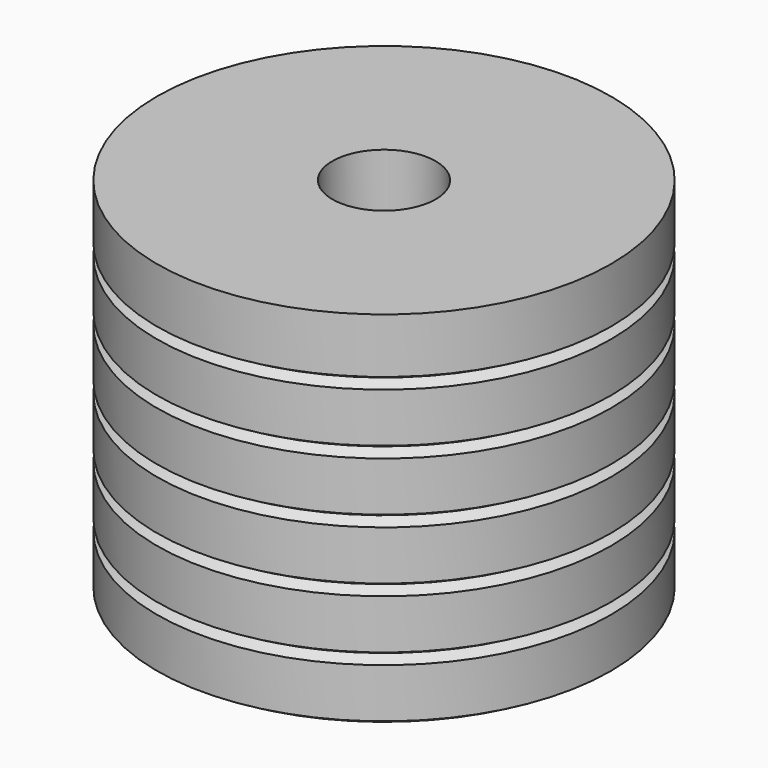
from build123d import *

# Parameters (mm, degrees)
F0_W     = 11.8872
F0_H     = 2.881706
F0_H_2   = 2.588412
F3_R     = 2.7051
F4_DEPTH = 25.4


with BuildPart() as f1:
    # F0 (on Front) → F1 (revolve)
    with BuildSketch(Plane.XZ):
        with Locations((5.9436, 17.609147)):
            Rectangle(F0_W, F0_H)
        with Locations((5.9436, 14.2875)):
            Rectangle(F0_W, F0_H_2)
        with Locations((5.9436, 11.1125)):
            Rectangle(F0_W, F0_H_2)
        with Locations((5.9436, 7.9375)):
            Rectangle(F0_W, F0_H_2)
        with Locations((5.9436, 4.7625)):
            Rectangle(F0_W, F0_H_2)
        with Locations((5.9436, 1.5875)):
            Rectangle(F0_W, F0_H_2)
    revolve(axis=Axis((11.8872, 0, 9.525), (0, 0, -1)))


with BuildPart() as f2:
    # F0 (on Front) → F2 (revolve)
    with BuildSketch(Plane.XZ):
        Polygon((11.8872, 16.168294), (0, 16.168294), (0.508, 15.875), (11.8872, 15.875), align=None)
        Polygon((0.508, 15.875), (0, 15.581706), (11.8872, 15.581706), (11.8872, 15.875), align=None)
        Polygon((11.8872, 12.993294), (0, 12.993294), (0.508, 12.7), (11.8872, 12.7), align=None)
        Polygon((0.508, 12.7), (0, 12.406706), (11.8872, 12.406706), (11.8872, 12.7), align=None)
        Polygon((11.8872, 9.818294), (0, 9.818294), (0.508, 9.525), (11.8872, 9.525), align=None)
        Polygon((0.508, 9.525), (0, 9.231706), (11.8872, 9.231706), (11.8872, 9.525), align=None)
        Polygon((11.8872, 6.643294), (0, 6.643294), (0.508, 6.35), (11.8872, 6.35), align=None)
        Polygon((0.508, 6.35), (0, 6.056706), (11.8872, 6.056706), (11.8872, 6.35), align=None)
        Polygon((11.8872, 3.468294), (0, 3.468294), (0.508, 3.175), (11.8872, 3.175), align=None)
        Polygon((0.508, 3.175), (0, 2.881706), (11.8872, 2.881706), (11.8872, 3.175), align=None)
        Polygon((0, 0.293294), (0.508, 0), (11.8872, 0), (11.8872, 0.293294), align=None)
    revolve(axis=Axis((11.8872, 0, 12.406706), (0, 0, -1)))


with BuildPart() as f4_tool:
    # F3 (on face) → F4 (new body)
    with BuildSketch(Plane.XY.offset(19.05)):
        with Locations((11.8872, 0)):
            Circle(F3_R)
    extrude(amount=-F4_DEPTH)


with BuildPart() as f1_1:
    add(f1.part)

    # F4: cut by f4_tool
    add(f4_tool.part, mode=Mode.SUBTRACT)


with BuildPart() as f2_1:
    add(f2.part)

    # F4: cut by f4_tool
    add(f4_tool.part, mode=Mode.SUBTRACT)


solid = Compound([f1_1.part, f2_1.part])
